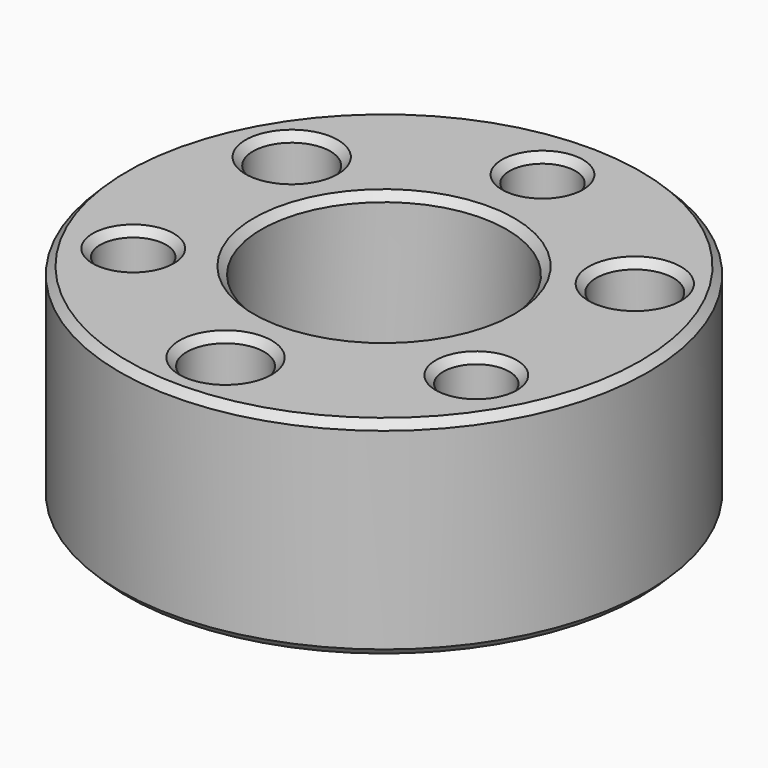
from build123d import *

# Parameters (mm, degrees)
SKETCH101_R           = 14
SKETCH101_R_2         = 6.5
PAD060_DEPTH          = 11
SKETCH102_R           = 7.15
POCKET039_DEPTH       = 4
SKETCH103_R           = 1.75
POCKET040_DEPTH       = 93.19589
POLARPATTERN021_COUNT = 6
SKETCH104_R           = 2.05
POCKET041_DEPTH       = 7
POLARPATTERN022_COUNT = 3
CHAMFER037_SIZE       = 0.25
CHAMFER036_SIZE       = 0.4


with BuildPart() as part:
    # Sketch101 → Pad060 (new body)
    with BuildSketch(Plane.XY):
        Circle(SKETCH101_R)
        Circle(SKETCH101_R_2, mode=Mode.SUBTRACT)
    extrude(amount=PAD060_DEPTH)

    # Sketch102 → Pocket039 (cut)
    with BuildSketch(Plane.XY):
        Circle(SKETCH102_R)
    extrude(amount=POCKET039_DEPTH, mode=Mode.SUBTRACT)

    # Sketch103 → Pocket040 (cut, through all)
    with BuildSketch(Plane.XY):
        with Locations((0, 10.5)):
            Circle(SKETCH103_R)
    pocket040 = extrude(amount=POCKET040_DEPTH, mode=Mode.SUBTRACT)

    # PolarPattern021: Pocket040 ×6 about axis
    polarpattern021_axis = Axis((0, 0, 0), (0, 0, 1))
    for i in range(1, POLARPATTERN021_COUNT):
        add(pocket040.rotate(polarpattern021_axis, i * 360 / POLARPATTERN021_COUNT), mode=Mode.SUBTRACT)

    # Sketch104 (on Plane of DatumPlane006) → Pocket041 (cut)
    with BuildSketch(Plane.XY.offset(11)):
        with Locations((0, -10.5)):
            Circle(SKETCH104_R)
    pocket041 = extrude(amount=-POCKET041_DEPTH, mode=Mode.SUBTRACT)

    # PolarPattern022: Pocket041 ×3 about axis
    polarpattern022_axis = Axis((0, 0, 11), (0, 0, 1))
    for i in range(1, POLARPATTERN022_COUNT):
        add(pocket041.rotate(polarpattern022_axis, i * 360 / POLARPATTERN022_COUNT), mode=Mode.SUBTRACT)

    # Chamfer037
    chamfer037_edges = [part.edges().sort_by_distance(p)[0] for p in [
        (1.75, -10.5, 4),
        (8.218267, 6.765544, 4),
        (-9.968267, 3.734456, 4),
    ]]
    chamfer(chamfer037_edges, length=CHAMFER037_SIZE)

    # Chamfer036
    chamfer036_edges = [part.edges().sort_by_distance(p)[0] for p in [
        (-14, 0, 11),
        (-8.218267, -6.765544, 11),
        (-2.05, -10.5, 11),
        (9.968267, -3.734456, 11),
        (-8.068267, 7.025352, 11),
        (-6.5, 0, 11),
        (10.118267, 3.474648, 11),
        (-1.75, 10.5, 11),
        (-14, 0, 0),
        (1.75, -10.5, 0),
        (-8.218267, -6.765544, 0),
        (-7.15, 0, 0),
        (9.968267, -3.734456, 0),
        (-9.968267, 3.734456, 0),
        (-1.75, 10.5, 0),
        (8.218267, 6.765544, 0),
    ]]
    chamfer(chamfer036_edges, length=CHAMFER036_SIZE)


solid = part.part
